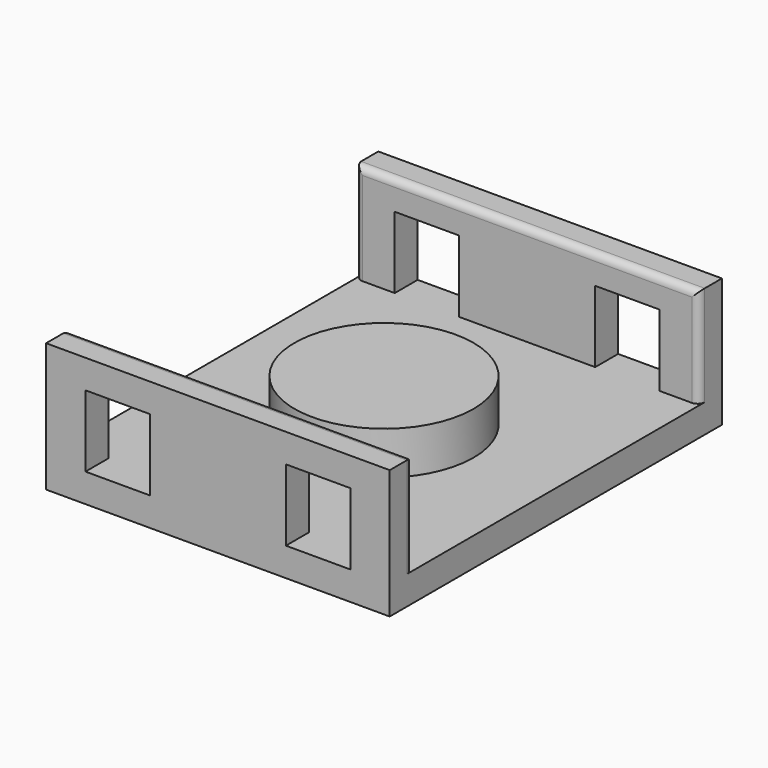
from build123d import *

# Parameters (mm, degrees)
F0_W          = 24
F0_H          = 25
F1_DEPTH      = 2
F2_R          = 6.25
F3_DEPTH      = 3
F4_W          = 24
F4_H          = 2
F5_DEPTH      = 7
F5_DEPTH_BACK = 2
F7_START      = 12
F6_W          = 4.5
F6_H          = 5
F7_DEPTH      = 3
F8_START      = -12
F8_DEPTH      = 3
F9_R          = 0.5


with BuildPart() as f1:
    # F0 (on Top) → F1 (new body)
    with BuildSketch(Plane.XY):
        Rectangle(F0_W, F0_H)
    extrude(amount=-F1_DEPTH)

    # F2 (on Top) → F3 (join)
    with BuildSketch(Plane.XY):
        Circle(F2_R)
    extrude(amount=F3_DEPTH)

    # F4 (on Top) → F5 (join, two sides)
    with BuildSketch(Plane.XY) as f5_sk:
        with Locations((0, 13.5)):
            Rectangle(F4_W, F4_H)
        with Locations((0, -13.5)):
            Rectangle(F4_W, F4_H)
    extrude(amount=F5_DEPTH)
    extrude(f5_sk.sketch, amount=-F5_DEPTH_BACK)

    # F6 (on Front) → F7 (cut)
    with BuildSketch(Plane.XZ.offset(F7_START)):
        with Locations((-7, 2.5)):
            Rectangle(F6_W, F6_H)
        with Locations((7, 2.5)):
            Rectangle(F6_W, F6_H)
    extrude(amount=F7_DEPTH, mode=Mode.SUBTRACT)

    # F6 (on Front) → F8 (cut)
    with BuildSketch(Plane.XZ.offset(F8_START)):
        with Locations((-7, 2.5)):
            Rectangle(F6_W, F6_H)
        with Locations((7, 2.5)):
            Rectangle(F6_W, F6_H)
    extrude(amount=-F8_DEPTH, mode=Mode.SUBTRACT)

    # F9
    f9_edges = [f1.edges().sort_by_distance(p)[0] for p in [
        (0, -12.5, 7),
        (0, 12.5, 7),
        (12, 12.5, 3.5),
        (12, -12.5, 3.5),
        (-12, -12.5, 3.5),
        (-12, 12.5, 3.5),
    ]]
    fillet(f9_edges, radius=F9_R)


solid = f1.part
